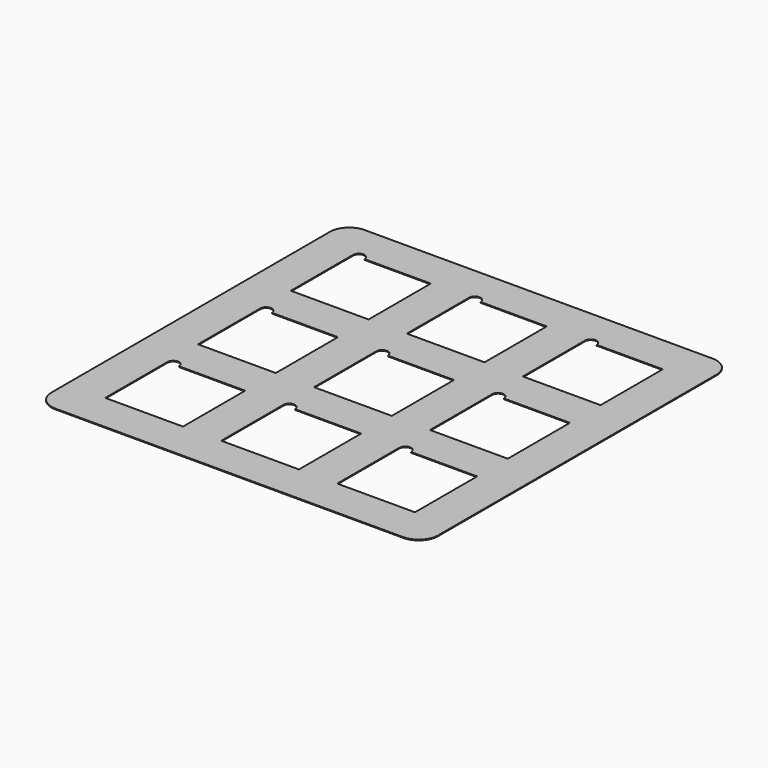
from build123d import *

# Parameters (mm, degrees)
F1_DEPTH = 0.2


with BuildPart() as f1:
    # F0 (on Top) → F1 (new body)
    with BuildSketch(Plane.XY):
        with BuildLine():
            Line((-45, -50), (45, -50))
            ThreePointArc((45, -50), (48.535534, -48.535534), (50, -45))
            Line((50, -45), (50, 45))
            ThreePointArc((50, 45), (48.535534, 48.535534), (45, 50))
            Line((45, 50), (-45, 50))
            ThreePointArc((-45, 50), (-48.535534, 48.535534), (-50, 45))
            Line((-50, 45), (-50, -45))
            ThreePointArc((-50, -45), (-48.535534, -48.535534), (-45, -50))
        make_face()
        with BuildLine():
            Line((-37.05, -19.95), (-19.95, -19.95))
            Line((-19.95, -19.95), (-19.95, -40.05))
            Line((-19.95, -40.05), (-40.05, -40.05))
            Line((-40.05, -40.05), (-40.05, -19.95))
            ThreePointArc((-40.05, -19.95), (-38.55, -18.45), (-37.05, -19.95))
        make_face(mode=Mode.SUBTRACT)
        with BuildLine():
            Line((-7.05, -19.95), (10.05, -19.95))
            Line((10.05, -19.95), (10.05, -40.05))
            Line((10.05, -40.05), (-10.05, -40.05))
            Line((-10.05, -40.05), (-10.05, -19.95))
            ThreePointArc((-10.05, -19.95), (-8.55, -18.45), (-7.05, -19.95))
        make_face(mode=Mode.SUBTRACT)
        with BuildLine():
            Line((22.95, -19.95), (40.05, -19.95))
            Line((40.05, -19.95), (40.05, -40.05))
            Line((40.05, -40.05), (19.95, -40.05))
            Line((19.95, -40.05), (19.95, -19.95))
            ThreePointArc((19.95, -19.95), (21.45, -18.45), (22.95, -19.95))
        make_face(mode=Mode.SUBTRACT)
        with BuildLine():
            Line((-37.05, 10.05), (-19.95, 10.05))
            Line((-19.95, 10.05), (-19.95, -10.05))
            Line((-19.95, -10.05), (-40.05, -10.05))
            Line((-40.05, -10.05), (-40.05, 10.05))
            ThreePointArc((-40.05, 10.05), (-38.55, 11.55), (-37.05, 10.05))
        make_face(mode=Mode.SUBTRACT)
        with BuildLine():
            Line((-19.95, 40.05), (-19.95, 19.95))
            Line((-19.95, 19.95), (-40.05, 19.95))
            Line((-40.05, 19.95), (-40.05, 40.05))
            ThreePointArc((-40.05, 40.05), (-38.55, 41.55), (-37.05, 40.05))
            Line((-37.05, 40.05), (-19.95, 40.05))
        make_face(mode=Mode.SUBTRACT)
        with BuildLine():
            Line((-7.05, 10.05), (10.05, 10.05))
            Line((10.05, 10.05), (10.05, -10.05))
            Line((10.05, -10.05), (-10.05, -10.05))
            Line((-10.05, -10.05), (-10.05, 10.05))
            ThreePointArc((-10.05, 10.05), (-8.55, 11.55), (-7.05, 10.05))
        make_face(mode=Mode.SUBTRACT)
        with BuildLine():
            Line((22.95, 10.05), (40.05, 10.05))
            Line((40.05, 10.05), (40.05, -10.05))
            Line((40.05, -10.05), (19.95, -10.05))
            Line((19.95, -10.05), (19.95, 10.05))
            ThreePointArc((19.95, 10.05), (21.45, 11.55), (22.95, 10.05))
        make_face(mode=Mode.SUBTRACT)
        with BuildLine():
            Line((-7.05, 40.05), (10.05, 40.05))
            Line((10.05, 40.05), (10.05, 19.95))
            Line((10.05, 19.95), (-10.05, 19.95))
            Line((-10.05, 19.95), (-10.05, 40.05))
            ThreePointArc((-10.05, 40.05), (-8.55, 41.55), (-7.05, 40.05))
        make_face(mode=Mode.SUBTRACT)
        with BuildLine():
            Line((22.95, 40.05), (40.05, 40.05))
            Line((40.05, 40.05), (40.05, 19.95))
            Line((40.05, 19.95), (19.95, 19.95))
            Line((19.95, 19.95), (19.95, 40.05))
            ThreePointArc((19.95, 40.05), (21.45, 41.55), (22.95, 40.05))
        make_face(mode=Mode.SUBTRACT)
    extrude(amount=F1_DEPTH)


solid = f1.part
